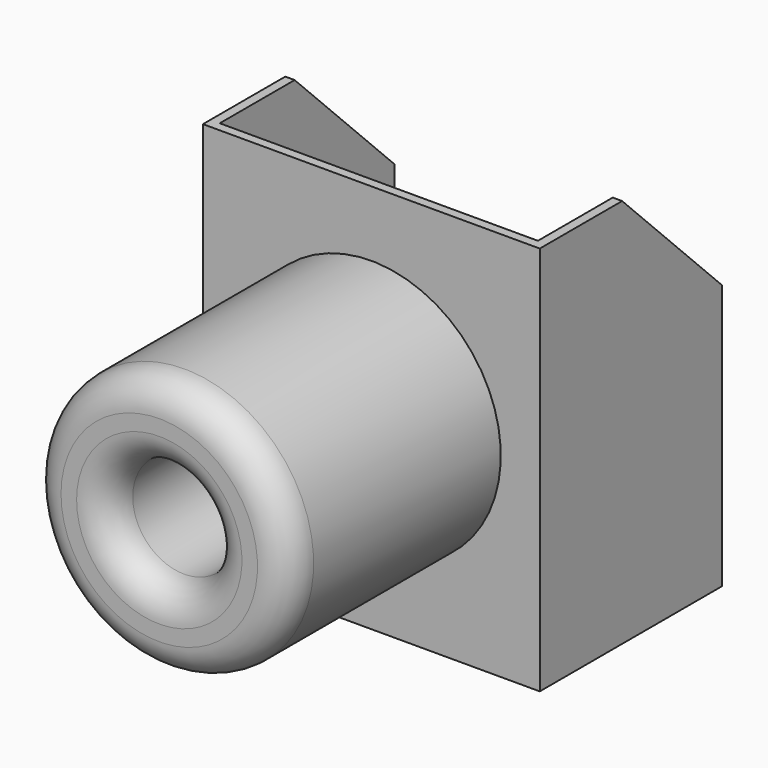
from build123d import *

# Parameters (mm, degrees)
SKETCH013_W   = 10.8
SKETCH013_H   = 12.5
PAD072_DEPTH  = 0.3
SKETCH014_W   = 0.3
SKETCH014_H   = 12.5
PAD073_DEPTH  = 7
SKETCH015_R   = 4.15
SKETCH015_R_2 = 1.65
PAD074_DEPTH  = 8.5
CHAMFER_SIZE  = 4
FILLET_R      = 1


with BuildPart() as part:
    # Sketch013 → Pad072 (new body)
    with BuildSketch(Plane(origin=(0, -0.3, 0), x_dir=(-1, 0, 0), z_dir=(0, 1, 0))):
        Rectangle(SKETCH013_W, SKETCH013_H)
    extrude(amount=PAD072_DEPTH)

    # Sketch014 → Pad073 (join)
    with BuildSketch(Plane.XZ):
        with Locations((5.25, 0)):
            Rectangle(SKETCH014_W, SKETCH014_H)
        with Locations((-5.25, 0)):
            Rectangle(SKETCH014_W, SKETCH014_H)
    extrude(amount=-PAD073_DEPTH)

    # Sketch015 → Pad074 (join)
    with BuildSketch(Plane(origin=(0, -0.3, 0), x_dir=(-1, 0, 0), z_dir=(0, 1, 0))):
        Circle(SKETCH015_R)
        Circle(SKETCH015_R_2, mode=Mode.SUBTRACT)
    extrude(amount=-PAD074_DEPTH)

    # Chamfer
    chamfer_edges = [part.edges().sort_by_distance(p)[0] for p in [
        (-5.25, 7, 6.25),
        (5.25, 7, 6.25),
    ]]
    chamfer(chamfer_edges, length=CHAMFER_SIZE)

    # Fillet
    fillet_edges = [part.edges().sort_by_distance(p)[0] for p in [
        (4.15, -8.8, 0),
        (1.65, -8.8, 0),
    ]]
    fillet(fillet_edges, radius=FILLET_R)


with BuildPart() as part_1:
    # Pad019Body placement: moved
    add(part.part.moved(Location((28.1, 0, 6.25))))


solid = part_1.part
